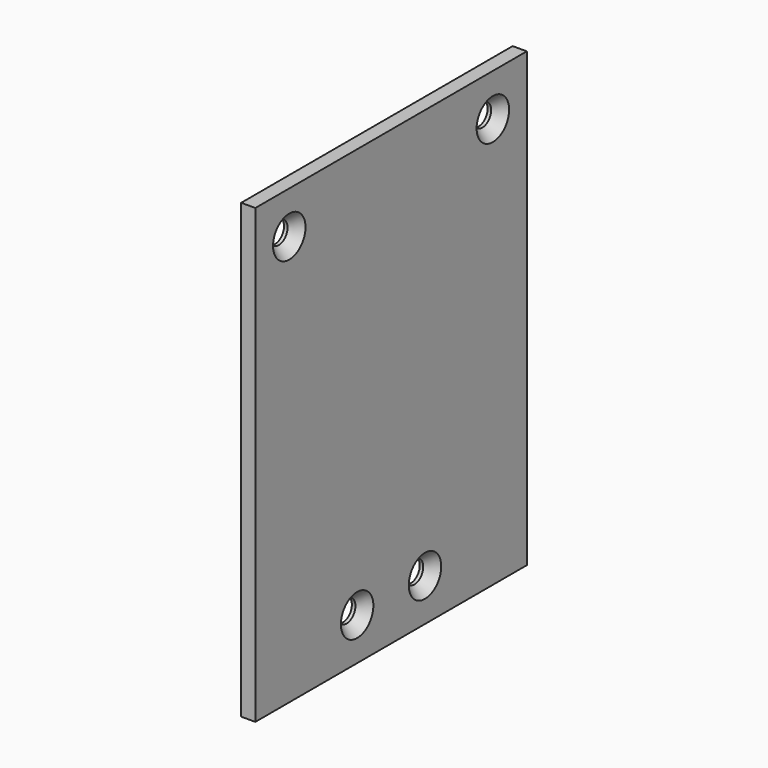
from build123d import *

# Parameters (mm, degrees)
F0_W           = 76.2
F0_H           = 101.6
F1_DEPTH       = 3.175
F3_D           = 4.9784
F3_CSINK_D     = 9.1186
F3_CSINK_ANGLE = 82


with BuildPart() as f1:
    # F0 (on Right) → F1 (new body)
    with BuildSketch(Plane.YZ):
        Rectangle(F0_W, F0_H)
    extrude(amount=F1_DEPTH)

    # F3 (through all)
    with Locations(Plane.YZ.offset(3.175)):
        with Locations((-28.575, 41.275), (28.575, 41.275), (9.525, -41.275), (-9.525, -41.275)):
            CounterSinkHole(F3_D / 2, F3_CSINK_D / 2, counter_sink_angle=F3_CSINK_ANGLE)


solid = f1.part
